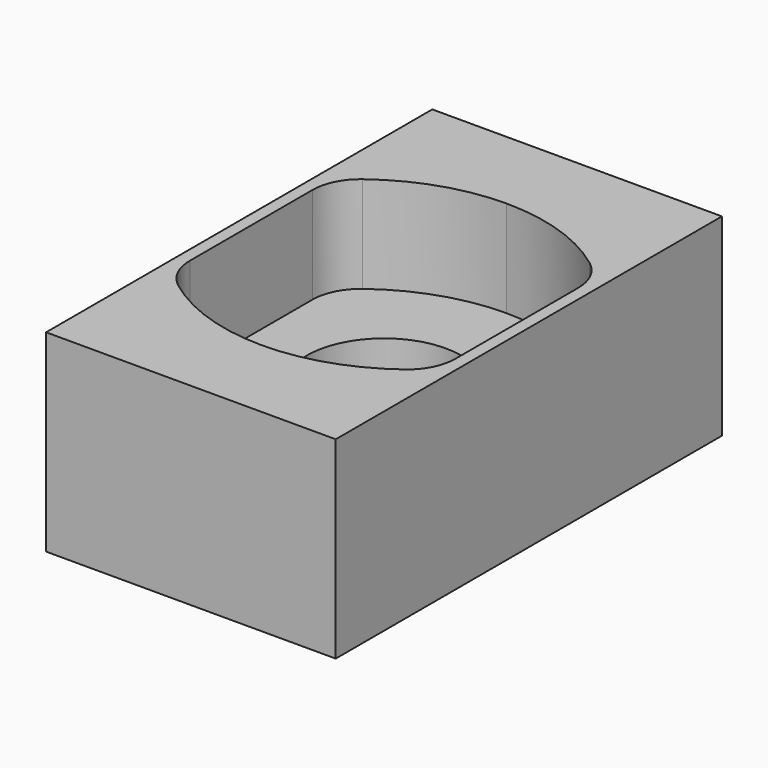
from build123d import *

# Parameters (mm, degrees)
F0_W     = 6
F0_H     = 10
F0_R     = 1.6
F1_DEPTH = 4
F2_DEPTH = 2


with BuildPart() as f1:
    # F0 (on Top) → F1 (new body)
    with BuildSketch(Plane.XY):
        Rectangle(F0_W, F0_H)
        with BuildLine():
            ThreePointArc((2.353595236, 2.3850041477), (2.6454315261, 2.0329125013), (2.75, 1.5877132403))
            Line((2.75, 1.5877132403), (2.75, -1.5877132403))
            ThreePointArc((2.75, -1.5877132403), (2.6454315261, -2.0329125013), (2.353595236, -2.3850041477))
            ThreePointArc((2.353595236, -2.3850041477), (1.2413881342, -2.9725427889), (0, -3.1754264805))
            ThreePointArc((0, -3.1754264805), (-1.2413881342, -2.9725427889), (-2.353595236, -2.3850041477))
            ThreePointArc((-2.353595236, -2.3850041477), (-2.6454315261, -2.0329125013), (-2.75, -1.5877132403))
            Line((-2.75, -1.5877132403), (-2.75, 1.5877132403))
            ThreePointArc((-2.75, 1.5877132403), (-2.6454315261, 2.0329125013), (-2.353595236, 2.3850041477))
            ThreePointArc((-2.353595236, 2.3850041477), (-1.2413881342, 2.9725427889), (0, 3.1754264805))
            ThreePointArc((0, 3.1754264805), (1.2413881342, 2.9725427889), (2.353595236, 2.3850041477))
        make_face(mode=Mode.SUBTRACT)
        with BuildLine():
            Line((-2.0541481362, 1.9894635012), (0, 3.1754264805))
            ThreePointArc((0, 3.1754264805), (-1.2413881342, 2.9725427889), (-2.353595236, 2.3850041477))
            Line((-2.353595236, 2.3850041477), (-2.0541481362, 1.9894635012))
        make_face()
        with BuildLine():
            Line((-2.75, 1.5877132403), (-2.0541481362, 1.9894635012))
            Line((-2.0541481362, 1.9894635012), (-2.353595236, 2.3850041477))
            ThreePointArc((-2.353595236, 2.3850041477), (-2.6454315261, 2.0329125013), (-2.75, 1.5877132403))
        make_face()
        with BuildLine():
            Line((0, 3.1754264805), (2.0541481362, 1.9894635012))
            Line((2.0541481362, 1.9894635012), (2.353595236, 2.3850041477))
            ThreePointArc((2.353595236, 2.3850041477), (1.2413881342, 2.9725427889), (0, 3.1754264805))
        make_face()
        with BuildLine():
            Line((2.0541481362, 1.9894635012), (2.75, 1.5877132403))
            ThreePointArc((2.75, 1.5877132403), (2.6454315261, 2.0329125013), (2.353595236, 2.3850041477))
            Line((2.353595236, 2.3850041477), (2.0541481362, 1.9894635012))
        make_face()
        Polygon((2.75, -1.5877132403), (2.75, 1.5877132403), (2.0541481362, 1.9894635012), (0, 3.1754264805), (-2.0541481362, 1.9894635012), (-2.75, 1.5877132403), (-2.75, -1.5877132403), (-2.0541481362, -1.9894635012), (0, -3.1754264805), (2.0541481362, -1.9894635012), align=None)
        Circle(F0_R, mode=Mode.SUBTRACT)
        with BuildLine():
            Line((2.353595236, -2.3850041477), (2.0541481362, -1.9894635012))
            Line((2.0541481362, -1.9894635012), (0, -3.1754264805))
            ThreePointArc((0, -3.1754264805), (1.2413881342, -2.9725427889), (2.353595236, -2.3850041477))
        make_face()
        with BuildLine():
            ThreePointArc((2.353595236, -2.3850041477), (2.6454315261, -2.0329125013), (2.75, -1.5877132403))
            Line((2.75, -1.5877132403), (2.0541481362, -1.9894635012))
            Line((2.0541481362, -1.9894635012), (2.353595236, -2.3850041477))
        make_face()
        with BuildLine():
            ThreePointArc((-2.353595236, -2.3850041477), (-1.2413881342, -2.9725427889), (0, -3.1754264805))
            Line((0, -3.1754264805), (-2.0541481362, -1.9894635012))
            Line((-2.0541481362, -1.9894635012), (-2.353595236, -2.3850041477))
        make_face()
        with BuildLine():
            Line((-2.353595236, -2.3850041477), (-2.0541481362, -1.9894635012))
            Line((-2.0541481362, -1.9894635012), (-2.75, -1.5877132403))
            ThreePointArc((-2.75, -1.5877132403), (-2.6454315261, -2.0329125013), (-2.353595236, -2.3850041477))
        make_face()
    extrude(amount=-F1_DEPTH)

    # F0 (on Top) → F2 (cut)
    with BuildSketch(Plane.XY):
        Polygon((2.75, -1.5877132403), (2.75, 1.5877132403), (2.0541481362, 1.9894635012), (0, 3.1754264805), (-2.0541481362, 1.9894635012), (-2.75, 1.5877132403), (-2.75, -1.5877132403), (-2.0541481362, -1.9894635012), (0, -3.1754264805), (2.0541481362, -1.9894635012), align=None)
        Circle(F0_R, mode=Mode.SUBTRACT)
        with BuildLine():
            Line((-2.75, 1.5877132403), (-2.0541481362, 1.9894635012))
            Line((-2.0541481362, 1.9894635012), (-2.353595236, 2.3850041477))
            ThreePointArc((-2.353595236, 2.3850041477), (-2.6454315261, 2.0329125013), (-2.75, 1.5877132403))
        make_face()
        with BuildLine():
            Line((-2.0541481362, 1.9894635012), (0, 3.1754264805))
            ThreePointArc((0, 3.1754264805), (-1.2413881342, 2.9725427889), (-2.353595236, 2.3850041477))
            Line((-2.353595236, 2.3850041477), (-2.0541481362, 1.9894635012))
        make_face()
        with BuildLine():
            ThreePointArc((2.353595236, -2.3850041477), (2.6454315261, -2.0329125013), (2.75, -1.5877132403))
            Line((2.75, -1.5877132403), (2.0541481362, -1.9894635012))
            Line((2.0541481362, -1.9894635012), (2.353595236, -2.3850041477))
        make_face()
        with BuildLine():
            Line((2.353595236, -2.3850041477), (2.0541481362, -1.9894635012))
            Line((2.0541481362, -1.9894635012), (0, -3.1754264805))
            ThreePointArc((0, -3.1754264805), (1.2413881342, -2.9725427889), (2.353595236, -2.3850041477))
        make_face()
        with BuildLine():
            Line((0, 3.1754264805), (2.0541481362, 1.9894635012))
            Line((2.0541481362, 1.9894635012), (2.353595236, 2.3850041477))
            ThreePointArc((2.353595236, 2.3850041477), (1.2413881342, 2.9725427889), (0, 3.1754264805))
        make_face()
        with BuildLine():
            Line((2.0541481362, 1.9894635012), (2.75, 1.5877132403))
            ThreePointArc((2.75, 1.5877132403), (2.6454315261, 2.0329125013), (2.353595236, 2.3850041477))
            Line((2.353595236, 2.3850041477), (2.0541481362, 1.9894635012))
        make_face()
        with BuildLine():
            ThreePointArc((-2.353595236, -2.3850041477), (-1.2413881342, -2.9725427889), (0, -3.1754264805))
            Line((0, -3.1754264805), (-2.0541481362, -1.9894635012))
            Line((-2.0541481362, -1.9894635012), (-2.353595236, -2.3850041477))
        make_face()
        with BuildLine():
            Line((-2.353595236, -2.3850041477), (-2.0541481362, -1.9894635012))
            Line((-2.0541481362, -1.9894635012), (-2.75, -1.5877132403))
            ThreePointArc((-2.75, -1.5877132403), (-2.6454315261, -2.0329125013), (-2.353595236, -2.3850041477))
        make_face()
    extrude(amount=-F2_DEPTH, mode=Mode.SUBTRACT)


solid = f1.part
